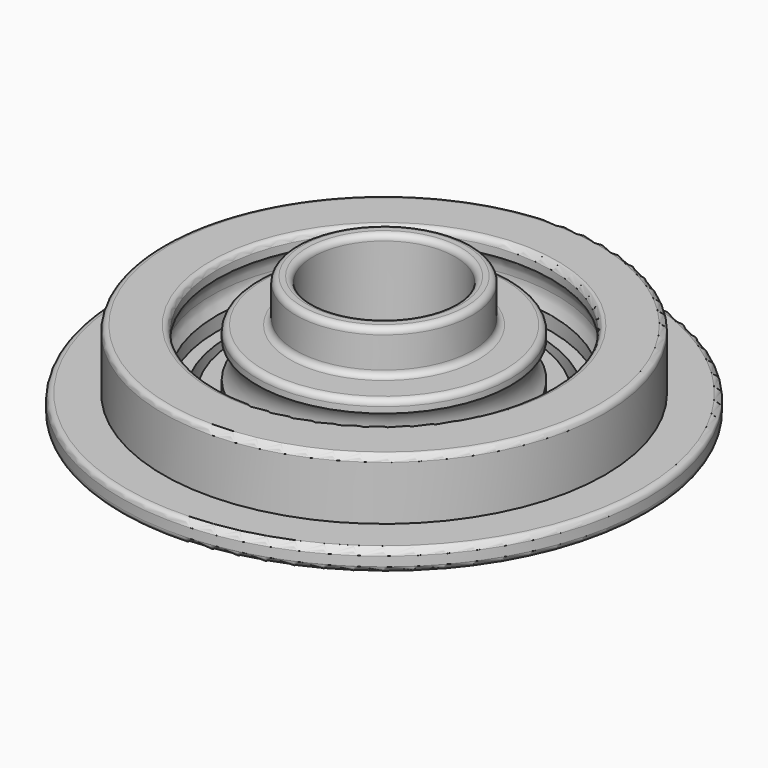
from build123d import *

# Parameters (mm, degrees)
F0_W = 2
F0_H = 5
F2_R = 0.7


with BuildPart() as f1:
    # F0 (on Front) → F1 (revolve)
    with BuildSketch(Plane.XZ):
        with BuildLine():
            Line((10.25, 3.5), (8.25, 3.5))
            Line((8.25, 3.5), (8.25, -3.5))
            Line((8.25, -3.5), (14.75, -3.5))
            Line((14.75, -3.5), (14.75, -2.095978))
            ThreePointArc((14.75, -2.095978), (13.925, 0), (14.75, 2.095978))
            Line((14.75, 2.095978), (14.75, 3.5))
            Line((14.75, 3.5), (10.25, 3.5))
        make_face()
        with BuildLine():
            Line((19.45, 3.5), (19.45, 1.858259))
            ThreePointArc((19.45, 1.858259), (19.914565, 0.980274), (20.075, 0))
            ThreePointArc((20.075, 0), (19.914565, -0.980274), (19.45, -1.858259))
            Line((19.45, -1.858259), (19.45, -3.5))
            Line((19.45, -3.5), (25.7, -3.5))
            Line((25.7, -3.5), (25.7, 3.5))
            Line((25.7, 3.5), (19.45, 3.5))
        make_face()
        with Locations((9.25, 6)):
            Rectangle(F0_W, F0_H)
        with BuildLine():
            Line((19.45, 3.5), (19.45, 1.858259))
            ThreePointArc((19.45, 1.858259), (19.914565, 0.980274), (20.075, 0))
            ThreePointArc((20.075, 0), (19.914565, -0.980274), (19.45, -1.858259))
            Line((19.45, -1.858259), (19.45, -3.5))
            Line((19.45, -3.5), (25.7, -3.5))
            Line((25.7, -3.5), (25.7, 3.5))
            Line((25.7, 3.5), (19.45, 3.5))
        make_face()
        Polygon((14.75, -3.5), (8.25, -3.5), (8.25, -6), (17, -6), (17, -3.5), align=None)
        Polygon((25.7, -3.5), (19.45, -3.5), (18, -3.5), (18, -6), (30.7, -6), (30.7, -3.5), align=None)
    revolve(axis=Axis((0, 0, 4.716056), (0, 0, 1)))

    # F2
    f2_edges = [f1.edges().sort_by_distance(p)[0] for p in [
        (-8.25, 0, -6),
        (-17, 0, -6),
        (-18, 0, -6),
        (-30.7, 0, -6),
        (-30.7, 0, -3.5),
        (-25.7, 0, 3.5),
        (-19.45, 0, 3.5),
        (-14.75, 0, 3.5),
        (-10.25, 0, 3.5),
        (-10.25, 0, 8.5),
        (-8.25, 0, 8.5),
    ]]
    fillet(f2_edges, radius=F2_R)


solid = f1.part
